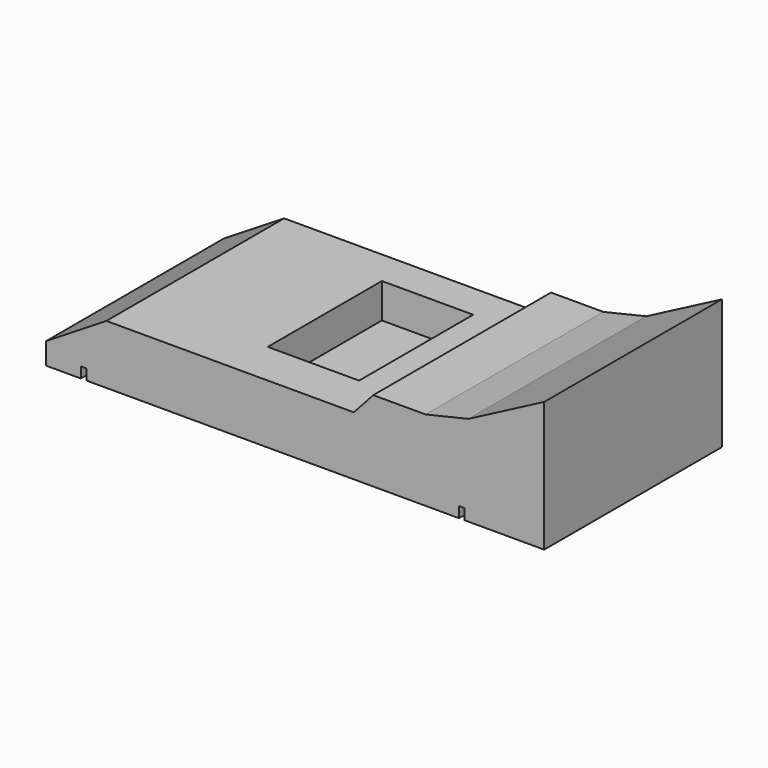
from build123d import *

# Parameters (mm, degrees)
F0_W     = 156.6164
F0_H     = 69.85
F1_DEPTH = 50.8
F3_DEPTH = 90.424
F4_W     = 28.712457
F4_H     = 44.847306
F5_DEPTH = 10.922
F6_W     = 1.7526
F6_H     = 6.634839
F7_DEPTH = 123.1646
F8_W     = 1.7526
F8_H     = 8.506187
F9_DEPTH = 74.7776


with BuildPart() as f1:
    # F0 (on Top) → F1 (new body)
    with BuildSketch(Plane.XY):
        Rectangle(F0_W, F0_H)
    extrude(amount=F1_DEPTH)

    # F2 (on face) → F3 (cut)
    with BuildSketch(Plane.XZ.offset(34.925)):
        Polygon((-96.243918, 45.539286), (-80.431662, 5.481581), (-59.348658, 18.553045), (-30.254111, 18.553045), (18.44763, 18.553045), (24.561701, 25.299605), (41.006446, 25.299605), (54.499563, 28.462056), (78.3082, 40.901028), (84.015772, 52.707508), (-62.089447, 67.676447), align=None)
    extrude(amount=-F3_DEPTH, mode=Mode.SUBTRACT)

    # F4 (on face) → F5 (cut)
    with BuildSketch(Plane.XY.offset(18.553045)):
        with Locations((-5.434541, 1.473863)):
            Rectangle(F4_W, F4_H)
    extrude(amount=-F5_DEPTH, mode=Mode.SUBTRACT)

    # F6 (on face) → F7 (cut)
    with BuildSketch(Plane.XZ.offset(34.925)):
        with Locations((-66.516876, 0.035381)):
            Rectangle(F6_W, F6_H)
    extrude(amount=-F7_DEPTH, mode=Mode.SUBTRACT)

    # F8 (on face) → F9 (cut)
    with BuildSketch(Plane.XZ.offset(34.925)):
        with Locations((52.404836, -0.900293)):
            Rectangle(F8_W, F8_H)
    extrude(amount=-F9_DEPTH, mode=Mode.SUBTRACT)


solid = f1.part
